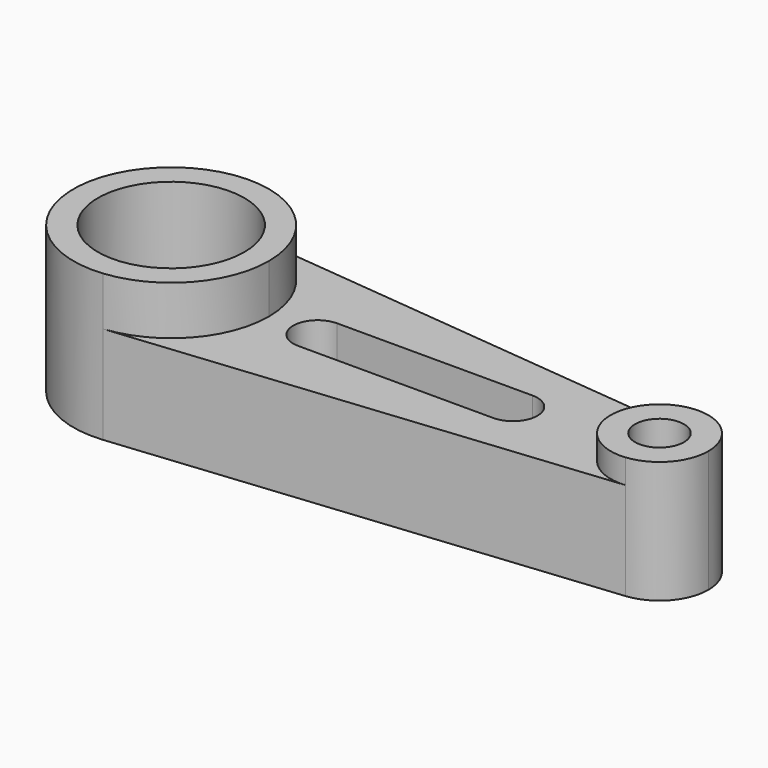
from build123d import *

# Parameters (mm, degrees)
F0_R     = 19.05
F1_DEPTH = 38.1
F2_DEPTH = 25.4
F0_R_2   = 6.35
F3_DEPTH = 31.75


with BuildPart() as f1:
    # F0 (on Top) → F1 (new body)
    with BuildSketch(Plane.XY):
        with BuildLine():
            ThreePointArc((-140.265326, -25.272681), (-123.968182, -17.038838), (-117.405326, 0))
            ThreePointArc((-117.405326, 0), (-123.968182, 17.038838), (-140.265326, 25.272681))
            ThreePointArc((-140.265326, 25.272681), (-168.205326, 0), (-140.265326, -25.272681))
        make_face()
        with Locations((-142.805326, 0)):
            Circle(F0_R, mode=Mode.SUBTRACT)
    extrude(amount=F1_DEPTH)

    # F0 (on Top) → F2 (join)
    with BuildSketch(Plane.XY):
        with BuildLine():
            ThreePointArc((-140.265326, 25.272681), (-123.968182, 17.038838), (-117.405326, 0))
            ThreePointArc((-117.405326, 0), (-123.968182, -17.038838), (-140.265326, -25.272681))
            Line((-140.265326, -25.272681), (-14.535326, -12.63634))
            ThreePointArc((-14.535326, -12.63634), (-28.505326, 0), (-14.535326, 12.63634))
            Line((-14.535326, 12.63634), (-140.265326, 25.272681))
        make_face()
        with BuildLine():
            ThreePointArc((-104.705326, -6.35), (-111.055326, 0), (-104.705326, 6.35))
            Line((-104.705326, 6.35), (-53.905326, 6.35))
            ThreePointArc((-53.905326, 6.35), (-49.415198, 4.490128), (-47.555326, 0))
            ThreePointArc((-47.555326, 0), (-49.415198, -4.490128), (-53.905326, -6.35))
            Line((-53.905326, -6.35), (-104.705326, -6.35))
        make_face(mode=Mode.SUBTRACT)
    extrude(amount=F2_DEPTH)

    # F0 (on Top) → F3 (join)
    with BuildSketch(Plane.XY):
        with BuildLine():
            ThreePointArc((-3.105326, 0), (-6.386754, 8.519419), (-14.535326, 12.63634))
            ThreePointArc((-14.535326, 12.63634), (-28.505326, 0), (-14.535326, -12.63634))
            ThreePointArc((-14.535326, -12.63634), (-6.386754, -8.519419), (-3.105326, 0))
        make_face()
        with Locations((-15.805326, 0)):
            Circle(F0_R_2, mode=Mode.SUBTRACT)
    extrude(amount=F3_DEPTH)


solid = f1.part
